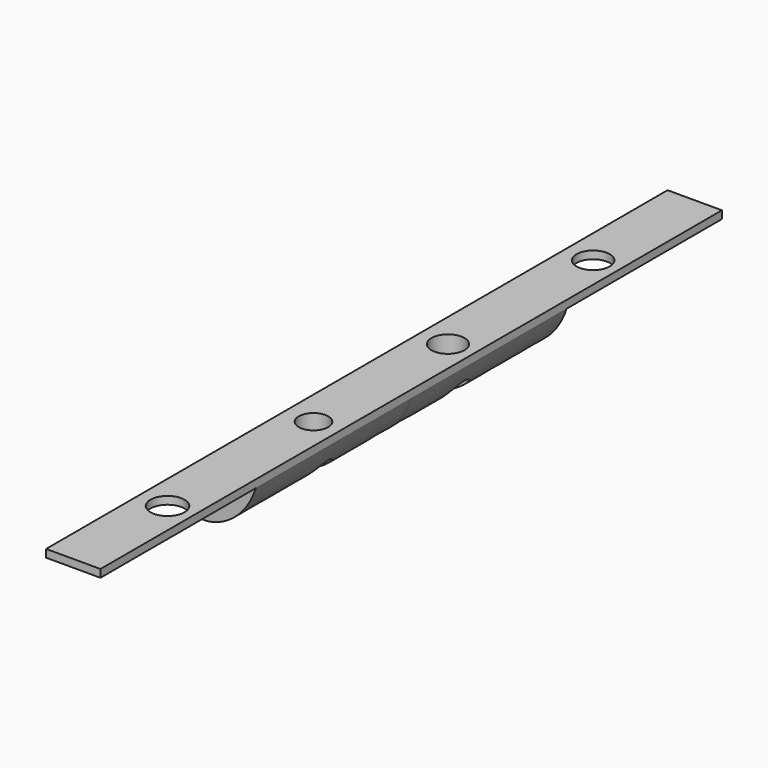
from build123d import *

# Parameters (mm, degrees)
F0_W     = 1.778
F0_H     = 0.254
F1_DEPTH = 6.35
F4_DEPTH = 12.7
F3_R     = 0.5395198469
F3_R_2   = 0.4810291572
F5_DEPTH = 12.7
F3_R_3   = 0.5570057599
F3_R_4   = 0.5432747466
F6_DEPTH = 12.7


with BuildPart() as f1:
    # F0 (on Front) → F1 (new body, symmetric)
    with BuildSketch(Plane.XZ):
        with Locations((-33.9207183995, 33.6461963858)):
            Rectangle(F0_W, F0_H)
        with BuildLine():
            Line((-33.0317183995, 33.5191963858), (-34.8097183995, 33.5191963858))
            add(Edge.make_bspline(
                [(-34.8097183995, 33.5191963858), (-35.2599674323, 32.3734659161), (-35.0020188336, 31.7023984615), (-33.3892727457, 32.4222034758), (-33.0317183995, 33.5191963858)],
                knots=[0, 0, 0, 0, 0.4458885949, 1, 1, 1, 1], degree=3))
        make_face()
    extrude(amount=F1_DEPTH, both=True)

    # F0 (on Front) → F4 (join, symmetric)
    with BuildSketch(Plane.XZ):
        with Locations((-33.9207183995, 33.6461963858)):
            Rectangle(F0_W, F0_H)
    extrude(amount=F4_DEPTH, both=True)

    # F3 (on offset) → F5 (cut)
    with BuildSketch(Plane.XY.offset(33.782)):
        with Locations((-33.8713638484, 2.5523416698)):
            Circle(F3_R)
        with Locations((-33.8713638484, -2.9430710711)):
            Circle(F3_R_2)
    extrude(amount=-F5_DEPTH, mode=Mode.SUBTRACT)

    # F3 (on offset) → F6 (cut)
    with BuildSketch(Plane.XY.offset(33.782)):
        with Locations((-33.8713638484, -8.9096939191)):
            Circle(F3_R_3)
        with Locations((-33.8713638484, 8.4864208475)):
            Circle(F3_R_4)
    extrude(amount=-F6_DEPTH, mode=Mode.SUBTRACT)


solid = f1.part
